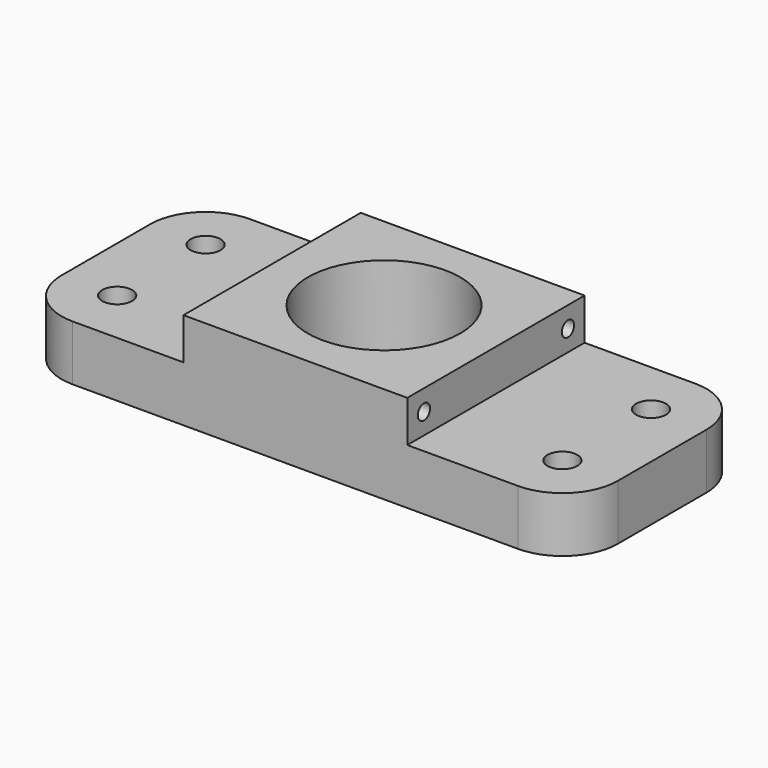
from build123d import *

# Parameters (mm, degrees)
F1_DEPTH      = 50.8
F2_R          = 12.7
F3_R          = 3.429
F3_R_2        = 17.4625
F4_DEPTH      = 25.4
F4_DEPTH_BACK = 25.4
F5_R          = 1.75
F6_DEPTH      = 89.409


with BuildPart() as f1:
    # F0 (on Front) → F1 (new body)
    with BuildSketch(Plane.XZ):
        Polygon((34.4563108511, 22.225), (-16.8516891489, 22.225), (-16.8516891489, 12.7), (-54.9516891489, 12.7), (-54.9516891489, 0), (72.5563108511, 0), (72.5563108511, 12.7), (34.4563108511, 12.7), align=None)
    extrude(amount=F1_DEPTH)

    # F2
    f2_edges = [f1.edges().sort_by_distance(p)[0] for p in [
        (72.556311, -50.8, 6.35),
        (72.556311, 0, 6.35),
        (-54.951689, -50.8, 6.35),
        (-54.951689, 0, 6.35),
    ]]
    fillet(f2_edges, radius=F2_R)

    # F3 (on face) → F4 (cut, two sides)
    with BuildSketch(Plane.XY.offset(12.7)) as f4_sk:
        with Locations((-42.2516891489, -12.7)):
            Circle(F3_R)
        with Locations((8.8023108511, -25.4)):
            Circle(F3_R_2)
        with Locations((59.8563108511, -38.1)):
            Circle(F3_R)
        with Locations((-42.3004887998, -37.9724390805)):
            Circle(F3_R)
        with Locations((59.8563108511, -12.7)):
            Circle(F3_R)
    extrude(amount=-F4_DEPTH, mode=Mode.SUBTRACT)
    extrude(f4_sk.sketch, amount=F4_DEPTH_BACK, mode=Mode.SUBTRACT)

    # F5 (on face) → F6 (cut, through all)
    with BuildSketch(Plane.YZ.offset(34.4563108511)):
        with Locations((-46.0375, 17.4625)):
            Circle(F5_R)
        with Locations((-4.7625, 17.4625)):
            Circle(F5_R)
    extrude(amount=-F6_DEPTH, mode=Mode.SUBTRACT)


solid = f1.part
